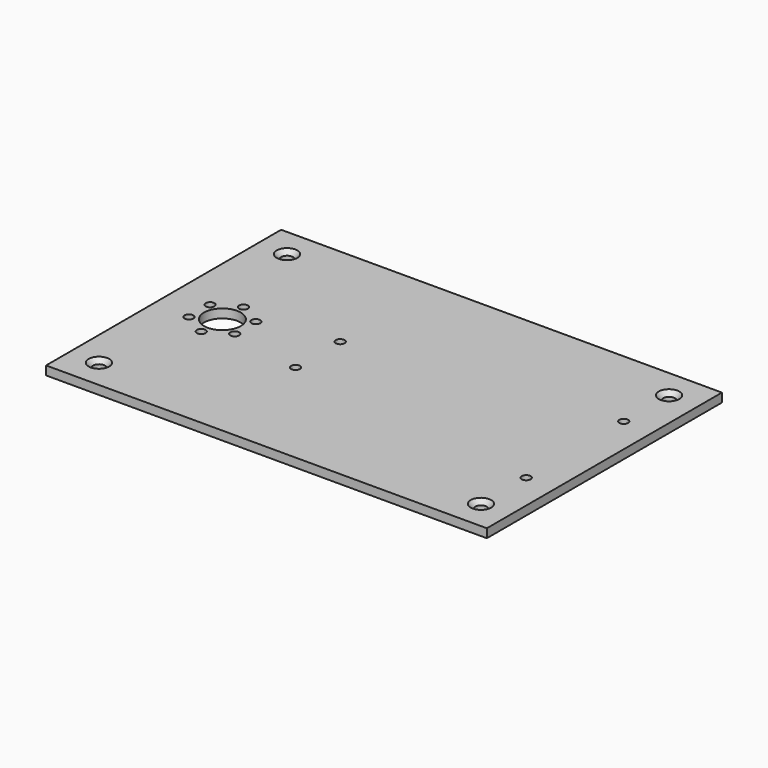
from build123d import *

# Parameters (mm, degrees)
F0_W     = 300
F0_H     = 200
F0_R     = 4
F0_R_2   = 3
F0_R_3   = 12.5
F1_DEPTH = 6
F2_SIZE  = 3
F3_SIZE  = 2


with BuildPart() as f1:
    # F0 (on Top) → F1 (new body)
    with BuildSketch(Plane.XY):
        with Locations((110, 0)):
            Rectangle(F0_W, F0_H)
        with Locations((-20, -80)):
            Circle(F0_R, mode=Mode.SUBTRACT)
        with Locations((-15.588457, -9)):
            Circle(F0_R_2, mode=Mode.SUBTRACT)
        with Locations((0, -18)):
            Circle(F0_R_2, mode=Mode.SUBTRACT)
        with Locations((15.588457, -9)):
            Circle(F0_R_2, mode=Mode.SUBTRACT)
        with Locations((65, -19)):
            Circle(F0_R_2, mode=Mode.SUBTRACT)
        with Locations((240, -80)):
            Circle(F0_R, mode=Mode.SUBTRACT)
        with Locations((240, -41.5)):
            Circle(F0_R_2, mode=Mode.SUBTRACT)
        with Locations((-15.588457, 9)):
            Circle(F0_R_2, mode=Mode.SUBTRACT)
        Circle(F0_R_3, mode=Mode.SUBTRACT)
        with Locations((15.588457, 9)):
            Circle(F0_R_2, mode=Mode.SUBTRACT)
        with Locations((0, 18)):
            Circle(F0_R_2, mode=Mode.SUBTRACT)
        with Locations((65, 19)):
            Circle(F0_R_2, mode=Mode.SUBTRACT)
        with Locations((-20, 80)):
            Circle(F0_R, mode=Mode.SUBTRACT)
        with Locations((240, 41.5)):
            Circle(F0_R_2, mode=Mode.SUBTRACT)
        with Locations((240, 80)):
            Circle(F0_R, mode=Mode.SUBTRACT)
    extrude(amount=F1_DEPTH)

    # F2
    f2_edges = [f1.edges().sort_by_distance(p)[0] for p in [
        (-24, 80, 6),
        (236, 80, 6),
        (236, -80, 6),
        (-24, -80, 6),
    ]]
    chamfer(f2_edges, length=F2_SIZE)

    # F3
    f3_edges = [f1.edges().sort_by_distance(p)[0] for p in [
        (62, -19, 0),
        (237, -41.5, 0),
        (237, 41.5, 0),
        (62, 19, 0),
        (-3, -18, 0),
        (-18.588457, -9, 0),
        (-18.588457, 9, 0),
        (12.588457, -9, 0),
        (12.588457, 9, 0),
        (-3, 18, 0),
    ]]
    chamfer(f3_edges, length=F3_SIZE)


solid = f1.part
